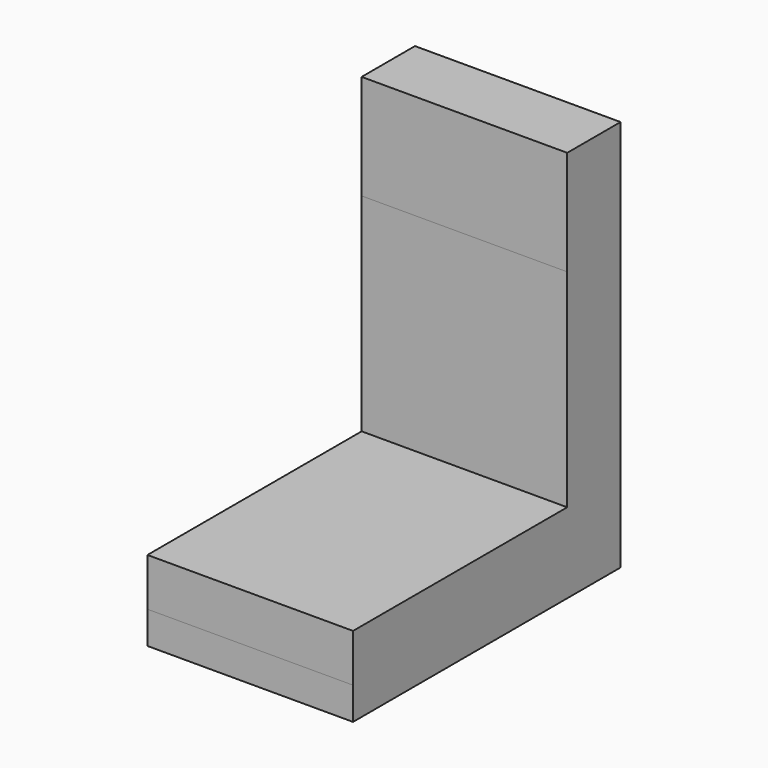
from build123d import *

# Parameters (mm, degrees)
F0_W      = 67.778922
F0_H      = 110.243834
F1_DEPTH  = 10.668
F2_W      = 67.778922
F2_H      = 21.981083
F3_DEPTH  = 84.074
F1_FACE_W = 67.778922
F1_FACE_H = 88.262751
F4_DEPTH  = 15.748
F3_FACE_W = 67.778922
F3_FACE_H = 21.981082
F5_DEPTH  = 34.544


with BuildPart() as f1:
    # F0 (on Top) → F1 (new body)
    with BuildSketch(Plane.XY):
        Rectangle(F0_W, F0_H)
    extrude(amount=F1_DEPTH)

    # F2 (on face) → F3 (join)
    with BuildSketch(Plane.XY.offset(10.668)):
        with Locations((0, 44.131375)):
            Rectangle(F2_W, F2_H)
    extrude(amount=F3_DEPTH)

    # F1_face (on face) → F4 (join)
    with BuildSketch(Plane.XY.offset(10.668)):
        with Locations((0, -10.990541)):
            Rectangle(F1_FACE_W, F1_FACE_H)
    extrude(amount=F4_DEPTH)

    # F3_face (on face) → F5 (join)
    with BuildSketch(Plane(origin=(0, 44.131376, 94.742), x_dir=(1, 0, 0), z_dir=(0, 0, 1))):
        Rectangle(F3_FACE_W, F3_FACE_H)
    extrude(amount=F5_DEPTH)


solid = f1.part
